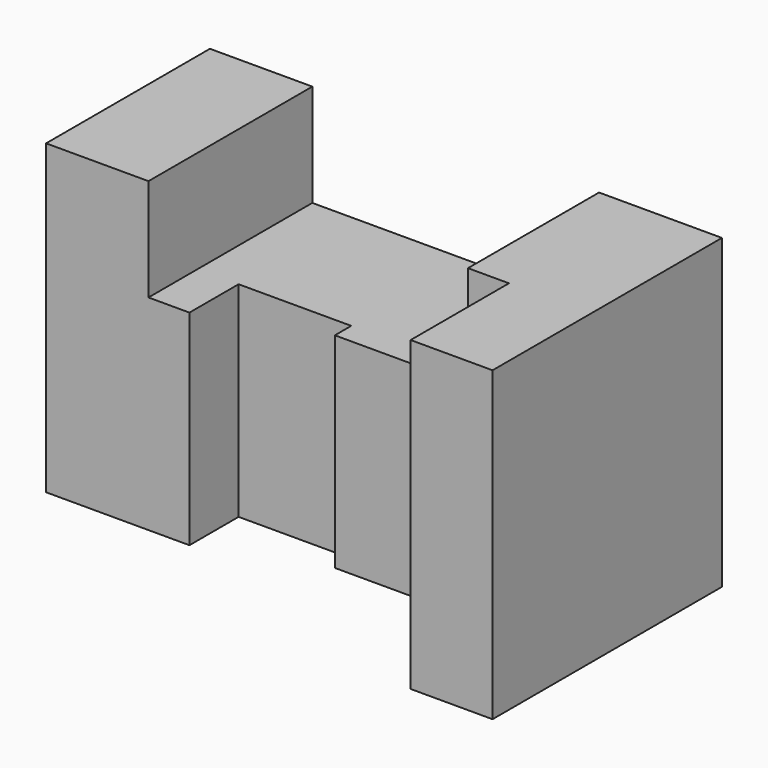
from build123d import *

# Parameters (mm, degrees)
F0_W     = 70
F0_H     = 75
F1_DEPTH = 62.5
F3_DEPTH = 75.001
F4_W     = 70
F4_H     = 25
F5_DEPTH = 70.001


with BuildPart() as f1:
    # F0 (on Right) → F1 (new body, symmetric)
    with BuildSketch(Plane.YZ):
        with Locations((0, 37.5)):
            Rectangle(F0_W, F0_H)
    extrude(amount=F1_DEPTH, both=True)

    # F2 (on face) → F3 (cut, through all)
    with BuildSketch(Plane.XY.offset(75)):
        Polygon((-62.5, -15), (-62.5, -35), (42.5, -35), (42.5, -5), (0, -5), (0, 0), (-27.5, 0), (-27.5, -15), align=None)
    extrude(amount=-F3_DEPTH, mode=Mode.SUBTRACT)

    # F4 (on face) → F5 (cut, through all)
    with BuildSketch(Plane(origin=(0, 35, 0), x_dir=(-1, 0, 0), z_dir=(0, 1, 0))):
        with Locations((2.5, 62.5)):
            Rectangle(F4_W, F4_H)
    extrude(amount=-F5_DEPTH, mode=Mode.SUBTRACT)


solid = f1.part
